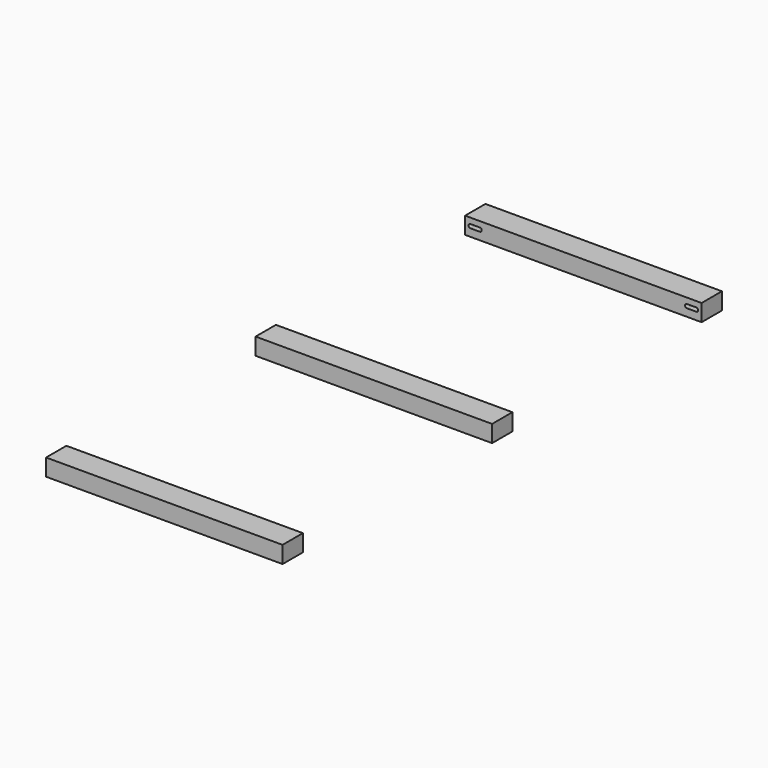
from build123d import *

# Parameters (mm, degrees)
SKETCH041_W            = 251.333334
SKETCH041_H            = 27
PAD026_DEPTH           = 18
POCKET020_DEPTH        = 27.001
POCKET020_DEPTH_BACK   = 0.001
LINEARPATTERN008_COUNT = 3
LINEARPATTERN008_PITCH = 278.333333


with BuildPart() as part:
    # Sketch041 → Pad026 (new body)
    with BuildSketch(Plane.XY):
        Rectangle(SKETCH041_W, SKETCH041_H)
    pad026 = extrude(amount=PAD026_DEPTH)

    # Sketch042 (on Face1 of Pad026) → Pocket020 (cut, two sides)
    with BuildSketch(Plane(origin=(0, 13.5, 0), x_dir=(-1, 0, 0), z_dir=(0, 1, 0))) as pocket020_sk:
        with BuildLine():
            ThreePointArc((-120, 12), (-122, 10), (-120, 8))
            Line((-120, 8), (-110, 8))
            ThreePointArc((-110, 8), (-108, 10), (-110, 12))
            Line((-110, 12), (-120, 12))
        make_face()
        with BuildLine():
            ThreePointArc((110, 12), (108, 10), (110, 8))
            Line((110, 8), (120, 8))
            ThreePointArc((120, 8), (122, 10), (120, 12))
            Line((120, 12), (110, 12))
        make_face()
    pocket020 = extrude(amount=-POCKET020_DEPTH, mode=Mode.SUBTRACT) + extrude(pocket020_sk.sketch, amount=POCKET020_DEPTH_BACK, mode=Mode.SUBTRACT)

    # LinearPattern008: Pocket020, Pad026 ×3
    with Locations(*[(0, -i * LINEARPATTERN008_PITCH, 0) for i in range(1, LINEARPATTERN008_COUNT)]):
        add(pocket020, mode=Mode.SUBTRACT)
        add(pad026)


with BuildPart() as part_1:
    # Body026 placement: moved
    add(part.part.moved(Location((139.333333, 278.333333, 0))))


solid = part_1.part
